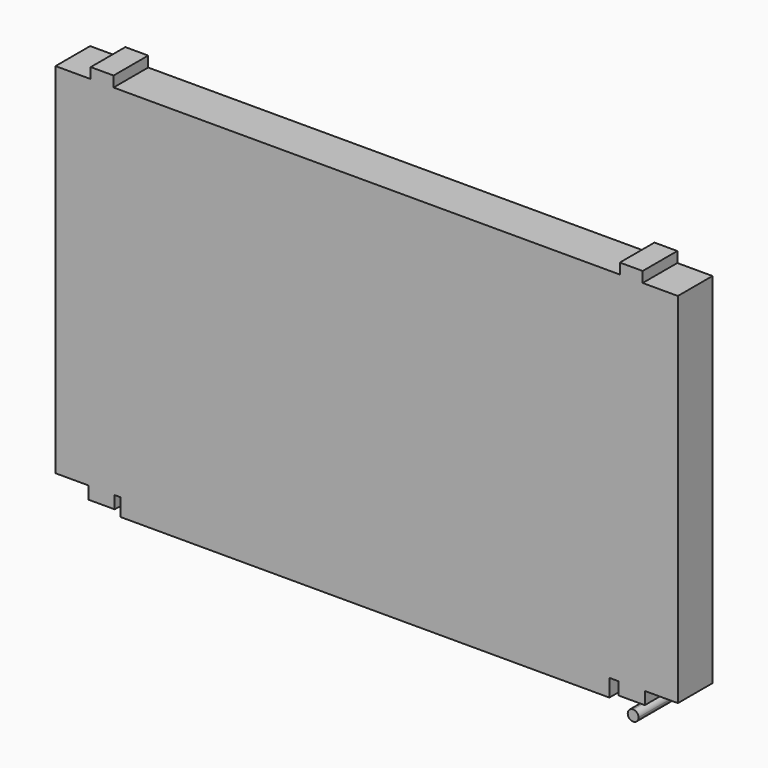
from build123d import *

# Parameters (mm, degrees)
F0_W     = 13.208
F0_H     = 6.096
F0_W_2   = 15.113
F0_H_2   = 7.239
F0_W_3   = 282.321
F0_H_3   = 10.03808
F1_DEPTH = 25


with BuildPart() as f1:
    # F0 (on Front) → F1 (new body)
    with BuildSketch(Plane.XZ):
        with BuildLine():
            ThreePointArc((155.895991, -195.417414), (154.984654, -193.217251), (152.784491, -192.305914))
            ThreePointArc((152.784491, -192.305914), (150.584329, -197.617576), (155.895991, -195.417414))
        make_face()
        Polygon((-160.473709, 26.261086), (-180.793709, 26.261086), (-180.793709, -180.748914), (-161.692909, -180.748914), (-146.579909, -180.748914), (-143.252509, -180.748914), (139.068491, -180.748914), (144.402491, -180.748914), (159.515491, -180.748914), (178.616291, -180.748914), (178.616291, 26.261086), (158.296291, 26.261086), (145.088291, 26.261086), (-147.265709, 26.261086), align=None)
        with Locations((-153.869709, 29.309086)):
            Rectangle(F0_W, F0_H)
        with Locations((-154.136409, -184.368414)):
            Rectangle(F0_W_2, F0_H_2)
        with Locations((151.692291, 29.309086)):
            Rectangle(F0_W, F0_H)
        with Locations((-2.092009, -185.767954)):
            Rectangle(F0_W_3, F0_H_3)
        Polygon((159.515491, -180.748914), (144.402491, -180.748914), (144.402491, -187.987914), (152.784491, -187.987914), (159.515491, -187.987914), align=None)
    extrude(amount=F1_DEPTH)


solid = f1.part
